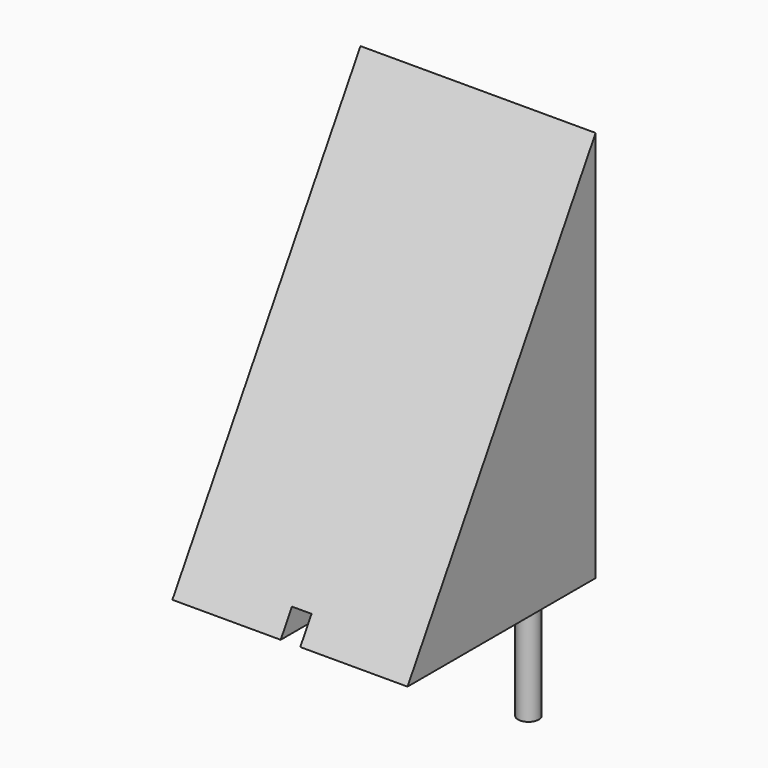
from build123d import *

# Parameters (mm, degrees)
F1_DEPTH = 76.2
F2_W     = 3.3474258035
F2_H     = 64.9583479285
F2_W_2   = 3.0025741965
F3_DEPTH = 7.62
F4_R     = 3.3661994945
F6_DEPTH = 35.56
F5_R     = 3.502231615
F7_DEPTH = 35.56


with BuildPart() as f1:
    # F0 (on Right) → F1 (new body)
    with BuildSketch(Plane.YZ):
        Polygon((46.9170771539, 127), (-29.2829228461, 0), (46.9170771539, 0), align=None)
    extrude(amount=F1_DEPTH)

    # F2 (on face) → F3 (cut)
    with BuildSketch(Plane(origin=(0, 0, 0), x_dir=(1, 0, 0), z_dir=(0, 0, -1))):
        with Locations((39.7737129018, -3.1962511182)):
            Rectangle(F2_W, F2_H)
        with Locations((36.5987129018, -3.1962511182)):
            Rectangle(F2_W_2, F2_H)
    extrude(amount=-F3_DEPTH, mode=Mode.SUBTRACT)

    # F4 (on face) → F6 (join)
    with BuildSketch(Plane(origin=(0, 0, 0), x_dir=(1, 0, 0), z_dir=(0, 0, -1))):
        with Locations((67.381285131, -30.7098347694)):
            Circle(F4_R)
    extrude(amount=F6_DEPTH)

    # F5 (on face) → F7 (join)
    with BuildSketch(Plane(origin=(0, 0, 0), x_dir=(1, 0, 0), z_dir=(0, 0, -1))):
        with Locations((8.0303065479, -29.4070355594)):
            Circle(F5_R)
    extrude(amount=F7_DEPTH)


solid = f1.part
